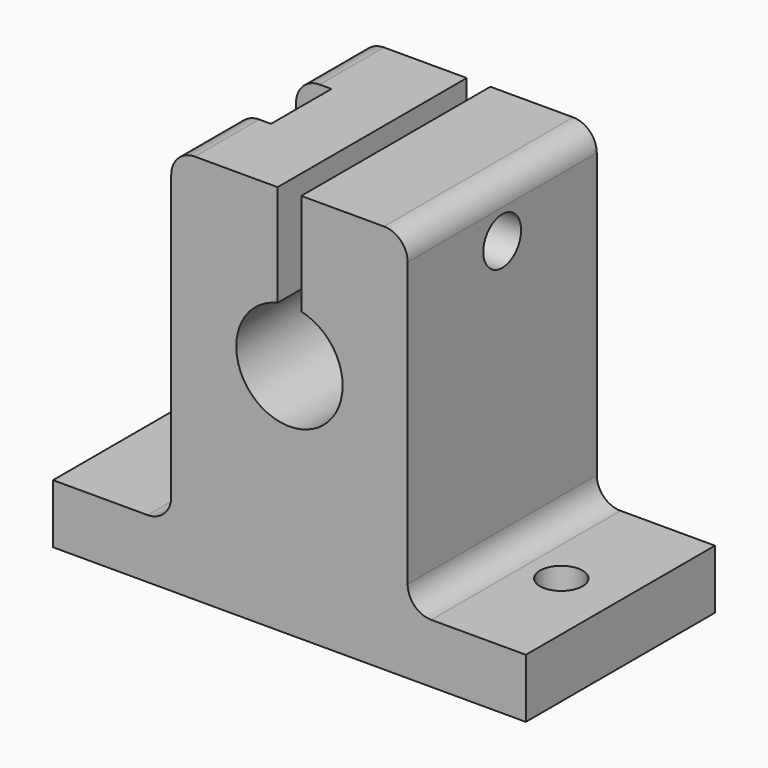
from build123d import *

# Parameters (mm, degrees)
F1_DEPTH = 20
F2_R     = 2
F3_DEPTH = 25
F5_DEPTH = 8
F6_R     = 1.8
F7_DEPTH = 25
F8_R     = 2


with BuildPart() as f1:
    # F0 (on Front) → F1 (new body)
    with BuildSketch(Plane.XZ):
        with BuildLine():
            Line((-1, 33), (-10, 33))
            Line((-10, 33), (-10, 5))
            Line((-10, 5), (-20, 5))
            Line((-20, 5), (-20, 0))
            Line((-20, 0), (20, 0))
            Line((20, 0), (20, 5))
            Line((20, 5), (10, 5))
            Line((10, 5), (10, 33))
            Line((10, 33), (1, 33))
            Line((1, 33), (1, 24.3874821937))
            ThreePointArc((1, 24.3874821937), (3.5178118199, 22.8062430401), (4.5, 20))
            ThreePointArc((4.5, 20), (-2.8062430401, 16.4821881801), (-1, 24.3874821937))
            Line((-1, 24.3874821937), (-1, 33))
        make_face()
    extrude(amount=F1_DEPTH)

    # F2 (on face) → F3 (cut)
    with BuildSketch(Plane.YZ.offset(10)):
        with Locations((-10, 28.5)):
            Circle(F2_R)
    extrude(amount=-F3_DEPTH, mode=Mode.SUBTRACT)

    # F4 (on face) → F5 (cut)
    with BuildSketch(Plane.XY.offset(33)):
        Polygon((-7, -6.8), (-10, -6.8), (-10, -13.2), (-7, -13.2), (-7, -10), align=None)
    extrude(amount=-F5_DEPTH, mode=Mode.SUBTRACT)

    # F6 (on face) → F7 (cut)
    with BuildSketch(Plane(origin=(0, 0, 0), x_dir=(1, 0, 0), z_dir=(0, 0, -1))):
        with Locations((-15, 10)):
            Circle(F6_R)
        with Locations((15, 10)):
            Circle(F6_R)
    extrude(amount=-F7_DEPTH, mode=Mode.SUBTRACT)

    # F8
    f8_edges = [f1.edges().sort_by_distance(p)[0] for p in [
        (-10, -10, 5),
        (10, -10, 5),
        (-10, -16.6, 33),
        (10, -10, 33),
        (-10, -3.4, 33),
    ]]
    fillet(f8_edges, radius=F8_R)


solid = f1.part
